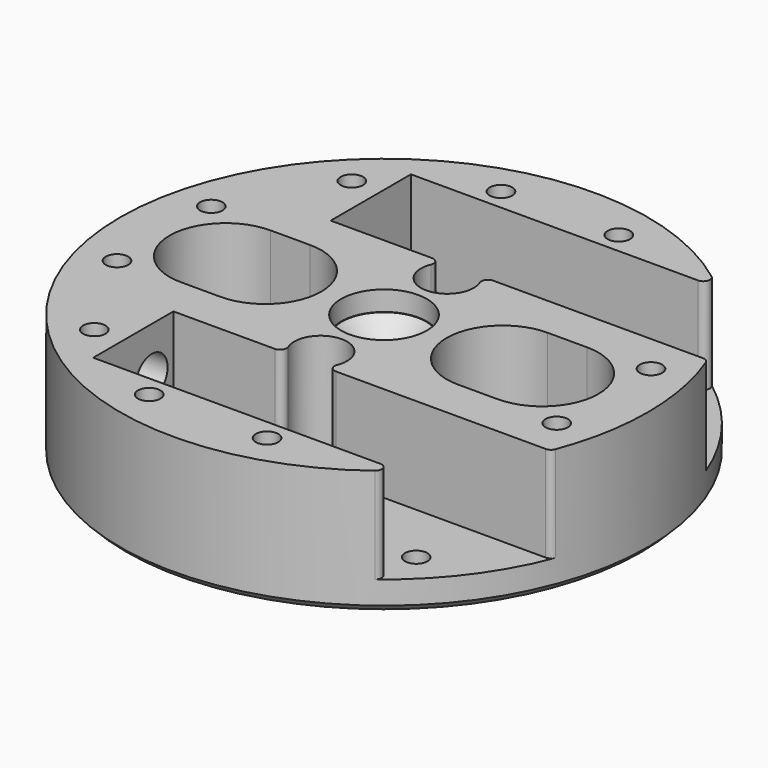
from build123d import *

# Parameters (mm, degrees)
SKETCH020_R           = 40
SKETCH020_R_2         = 3.2
SKETCH020_R_3         = 4
PAD_DEPTH             = 19
SKETCH_W              = 60
SKETCH_H              = 15.2
POCKET_DEPTH          = 14.5
SKETCH022_R           = 1.7
POCKET002_DEPTH       = 248.443803
POLARPATTERN001_COUNT = 12
SKETCH024_R           = 3
POCKET003_DEPTH       = 20.001
SKETCH025_R           = 6.5
POCKET004_DEPTH       = 3
CHAMFER_SIZE          = 3.2
FILLET_R              = 1
FILLET001_R           = 1
FILLET002_R           = 1
FILLET003_R           = 1
FILLET004_R           = 1
FILLET005_R           = 1
FILLET006_R           = 1
FILLET007_R           = 1
FILLET008_R           = 1
FILLET009_R           = 1
CHAMFER001_SIZE       = 1.7
CHAMFER002_SIZE       = 1.7
CHAMFER003_SIZE       = 1.7
CHAMFER004_SIZE       = 1.7
CHAMFER005_SIZE       = 1.7
CHAMFER006_SIZE       = 1.7
CHAMFER007_SIZE       = 1.7
CHAMFER008_SIZE       = 1.7
CHAMFER009_SIZE       = 1.7
CHAMFER010_SIZE       = 1.7
CHAMFER011_SIZE       = 1.7
CHAMFER012_SIZE       = 1.7
CHAMFER013_SIZE       = 1


with BuildPart() as part:
    # Sketch020 → Pad (new body)
    with BuildSketch(Plane(origin=(0, 0, 0), x_dir=(1, 0, 0), z_dir=(0, 0, -1))):
        Circle(SKETCH020_R)
        Circle(SKETCH020_R_2, mode=Mode.SUBTRACT)
        with Locations((0, 12)):
            Circle(SKETCH020_R_3, mode=Mode.SUBTRACT)
        with Locations((0, -12)):
            Circle(SKETCH020_R_3, mode=Mode.SUBTRACT)
        with BuildLine():
            ThreePointArc((-24, 8.5), (-32.5, 0), (-24, -8.5))
            Line((-24, -8.5), (-18, -8.5))
            ThreePointArc((-18, -8.5), (-9.5, 0), (-18, 8.5))
            Line((-24, 8.5), (-18, 8.5))
        make_face(mode=Mode.SUBTRACT)
        with BuildLine():
            ThreePointArc((18, 8.5), (9.5, 0), (18, -8.5))
            Line((18, -8.5), (24, -8.5))
            ThreePointArc((24, -8.5), (32.5, 0), (24, 8.5))
            Line((18, 8.5), (24, 8.5))
        make_face(mode=Mode.SUBTRACT)
    extrude(amount=PAD_DEPTH)

    # Sketch → Pocket (cut)
    with BuildSketch(Plane.XY):
        with Locations((10, 22.5)):
            Rectangle(SKETCH_W, SKETCH_H)
        with Locations((10, -22.5)):
            Rectangle(SKETCH_W, SKETCH_H)
    extrude(amount=-POCKET_DEPTH, mode=Mode.SUBTRACT)

    # Sketch022 → Pocket002 (cut, through all)
    with BuildSketch(Plane.XY):
        with Locations((33.324441, 8.929257)):
            Circle(SKETCH022_R)
    pocket002 = extrude(amount=-POCKET002_DEPTH, mode=Mode.SUBTRACT)

    # PolarPattern001: Pocket002 ×12 about axis
    polarpattern001_axis = Axis((0, 0, 0), (0, 0, 1))
    for i in range(1, POLARPATTERN001_COUNT):
        add(pocket002.rotate(polarpattern001_axis, i * 360 / POLARPATTERN001_COUNT), mode=Mode.SUBTRACT)

    # Sketch024 → Pocket003 (cut, through all)
    with BuildSketch(Plane(origin=(-20, 0, 0), x_dir=(0, -1, 0), z_dir=(1, 0, 0))):
        with Locations((-19, 7)):
            Circle(SKETCH024_R)
        with Locations((19, 7)):
            Circle(SKETCH024_R)
    extrude(amount=-POCKET003_DEPTH, mode=Mode.SUBTRACT)

    # Sketch025 → Pocket004 (cut)
    with BuildSketch(Plane.XY):
        Circle(SKETCH025_R)
    extrude(amount=-POCKET004_DEPTH, mode=Mode.SUBTRACT)

    # Chamfer
    chamfer_edges = [part.edges().sort_by_distance(p)[0] for p in [
        (-3.2, 0, -3),
    ]]
    chamfer(chamfer_edges, length=CHAMFER_SIZE)

    # Fillet
    fillet_edges = [part.edges().sort_by_distance(p)[0] for p in [
        (-2.754995, 14.9, -7.25),
    ]]
    fillet(fillet_edges, radius=FILLET_R)

    # Fillet001
    fillet001_edges = [part.edges().sort_by_distance(p)[0] for p in [
        (2.754995, 14.9, -7.25),
    ]]
    fillet(fillet001_edges, radius=FILLET001_R)

    # Fillet002
    fillet002_edges = [part.edges().sort_by_distance(p)[0] for p in [
        (-2.754995, -14.9, -7.25),
    ]]
    fillet(fillet002_edges, radius=FILLET002_R)

    # Fillet003
    fillet003_edges = [part.edges().sort_by_distance(p)[0] for p in [
        (2.754995, -14.9, -7.25),
    ]]
    fillet(fillet003_edges, radius=FILLET003_R)

    # Fillet004
    fillet004_edges = [part.edges().sort_by_distance(p)[0] for p in [
        (37.121288, -14.9, -7.25),
    ]]
    fillet(fillet004_edges, radius=FILLET004_R)

    # Fillet005
    fillet005_edges = [part.edges().sort_by_distance(p)[0] for p in [
        (26.34369, -30.1, -7.25),
    ]]
    fillet(fillet005_edges, radius=FILLET005_R)

    # Fillet006
    fillet006_edges = [part.edges().sort_by_distance(p)[0] for p in [
        (37.121288, 14.9, -7.25),
    ]]
    fillet(fillet006_edges, radius=FILLET006_R)

    # Fillet007
    fillet007_edges = [part.edges().sort_by_distance(p)[0] for p in [
        (26.34369, 30.1, -7.25),
    ]]
    fillet(fillet007_edges, radius=FILLET007_R)

    # Fillet008
    fillet008_edges = [part.edges().sort_by_distance(p)[0] for p in [
        (-35.173111, 19.048682, -4.000395),
    ]]
    fillet(fillet008_edges, radius=FILLET008_R)

    # Fillet009
    fillet009_edges = [part.edges().sort_by_distance(p)[0] for p in [
        (-35.173111, -19.048682, -4.000395),
    ]]
    fillet(fillet009_edges, radius=FILLET009_R)

    # Chamfer001
    chamfer001_edges = [part.edges().sort_by_distance(p)[0] for p in [
        (31.624441, 8.929257, -19),
    ]]
    chamfer(chamfer001_edges, length=CHAMFER001_SIZE)

    # Chamfer002
    chamfer002_edges = [part.edges().sort_by_distance(p)[0] for p in [
        (22.922941, 23.545184, -19),
    ]]
    chamfer(chamfer002_edges, length=CHAMFER002_SIZE)

    # Chamfer003
    chamfer003_edges = [part.edges().sort_by_distance(p)[0] for p in [
        (8.079257, 31.852198, -19),
    ]]
    chamfer(chamfer003_edges, length=CHAMFER003_SIZE)

    # Chamfer004
    chamfer004_edges = [part.edges().sort_by_distance(p)[0] for p in [
        (-8.929257, 31.624441, -19),
    ]]
    chamfer(chamfer004_edges, length=CHAMFER004_SIZE)

    # Chamfer005
    chamfer005_edges = [part.edges().sort_by_distance(p)[0] for p in [
        (-23.545184, 22.922941, -19),
    ]]
    chamfer(chamfer005_edges, length=CHAMFER005_SIZE)

    # Chamfer006
    chamfer006_edges = [part.edges().sort_by_distance(p)[0] for p in [
        (-31.852198, 8.079257, -19),
    ]]
    chamfer(chamfer006_edges, length=CHAMFER006_SIZE)

    # Chamfer007
    chamfer007_edges = [part.edges().sort_by_distance(p)[0] for p in [
        (-31.624441, -8.929257, -19),
    ]]
    chamfer(chamfer007_edges, length=CHAMFER007_SIZE)

    # Chamfer008
    chamfer008_edges = [part.edges().sort_by_distance(p)[0] for p in [
        (-22.922941, -23.545184, -19),
    ]]
    chamfer(chamfer008_edges, length=CHAMFER008_SIZE)

    # Chamfer009
    chamfer009_edges = [part.edges().sort_by_distance(p)[0] for p in [
        (-8.079257, -31.852198, -19),
    ]]
    chamfer(chamfer009_edges, length=CHAMFER009_SIZE)

    # Chamfer010
    chamfer010_edges = [part.edges().sort_by_distance(p)[0] for p in [
        (8.929257, -31.624441, -19),
    ]]
    chamfer(chamfer010_edges, length=CHAMFER010_SIZE)

    # Chamfer011
    chamfer011_edges = [part.edges().sort_by_distance(p)[0] for p in [
        (23.545184, -22.922941, -19),
    ]]
    chamfer(chamfer011_edges, length=CHAMFER011_SIZE)

    # Chamfer012
    chamfer012_edges = [part.edges().sort_by_distance(p)[0] for p in [
        (31.852198, -8.079257, -19),
    ]]
    chamfer(chamfer012_edges, length=CHAMFER012_SIZE)

    # Chamfer013
    chamfer013_edges = [part.edges().sort_by_distance(p)[0] for p in [
        (-40, 0, -19),
    ]]
    chamfer(chamfer013_edges, length=CHAMFER013_SIZE)


solid = part.part
